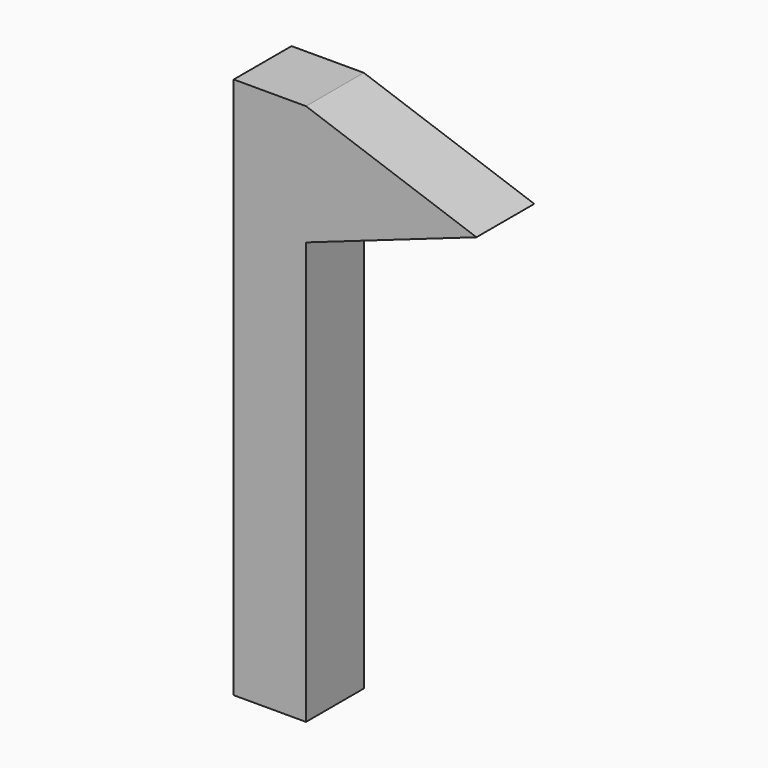
from build123d import *

# Parameters (mm, degrees)
F1_DEPTH = 10
F2_DEPTH = 10


with BuildPart() as f1:
    # F0 (on Front) → F1 (new body)
    with BuildSketch(Plane.XZ):
        Polygon((0, 26.44526), (0, 43.04029), (-10, 43.04029), (-10, -31.95971), (0, -31.95971), align=None)
    extrude(amount=F1_DEPTH)

    # F0 (on Front) → F2 (join)
    with BuildSketch(Plane.XZ):
        Polygon((0, 26.44526), (0, 43.04029), (-10, 43.04029), (-10, -31.95971), (0, -31.95971), align=None)
        Polygon((23.582859, 34.742775), (0, 43.04029), (0, 26.44526), align=None)
    extrude(amount=F2_DEPTH)


solid = f1.part
